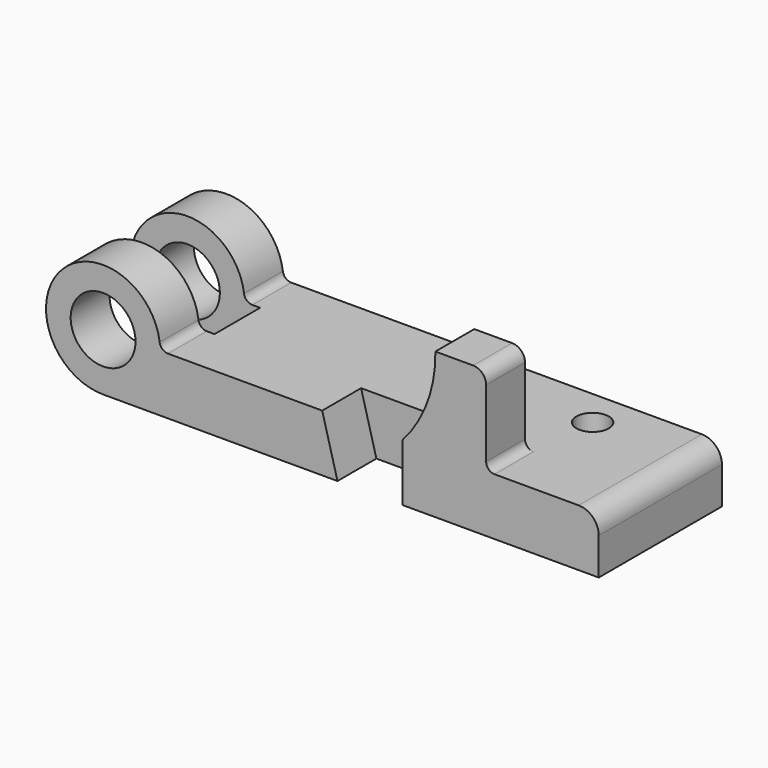
from build123d import *

# Parameters (mm, degrees)
F0_R      = 12.7
F1_DEPTH  = 30.1625
F2_W      = 56.912827603
F2_H      = 22.3266
F3_DEPTH  = 44.705
F4_R      = 3.302
F5_R      = 3.302
F6_R      = 6.35
F7_DEPTH  = 22.353
F9_DEPTH  = 19.05
F11_DEPTH = 19.05
F12_R     = 7.874
F13_R     = 5.08


with BuildPart() as f1:
    # F0 (on Front) → F1 (new body, symmetric)
    with BuildSketch(Plane.XZ):
        with BuildLine():
            ThreePointArc((22.352, 22.352), (-15.8052507731, 38.1572507731), (0, 0))
            Line((0, 0), (194.2084, 0))
            Line((194.2084, 0), (194.2084, 22.352))
            Line((194.2084, 22.352), (22.352, 22.352))
        make_face()
        with Locations((0, 22.352)):
            Circle(F0_R, mode=Mode.SUBTRACT)
    extrude(amount=F1_DEPTH, both=True)

    # F2 (on Top) → F3 (cut, through all)
    with BuildSketch(Plane.XY):
        Rectangle(F2_W, F2_H)
    extrude(amount=F3_DEPTH, mode=Mode.SUBTRACT)

    # F4
    f4_edges = [f1.edges().sort_by_distance(p)[0] for p in [
        (22.352, 20.6629, 22.352),
    ]]
    fillet(f4_edges, radius=F4_R)

    # F5
    f5_edges = [f1.edges().sort_by_distance(p)[0] for p in [
        (22.352, -20.6629, 22.352),
    ]]
    fillet(f5_edges, radius=F5_R)

    # F6 (on face) → F7 (cut, through all)
    with BuildSketch(Plane.XY.offset(22.352)):
        with Locations((155.3464, 15.4305)):
            Circle(F6_R)
    extrude(amount=-F7_DEPTH, mode=Mode.SUBTRACT)

    # F8 (on face) → F9 (cut)
    with BuildSketch(Plane.XZ.offset(30.1625)):
        Polygon((117.2464, 0), (117.2464, 22.352), (85.852, 22.352), (91.8464, 0), align=None)
    extrude(amount=-F9_DEPTH, mode=Mode.SUBTRACT)

    # F10 (on face) → F11 (join)
    with BuildSketch(Plane.XZ.offset(30.1625)):
        with BuildLine():
            ThreePointArc((130.1968694519, 57.15), (127.0147572456, 38.5254271914), (117.2464, 22.352))
            Line((117.2464, 22.352), (150.0886, 22.352))
            Line((150.0886, 22.352), (153.3906, 22.352))
            ThreePointArc((153.3906, 22.352), (151.0557334085, 23.3191334085), (150.0886, 25.654))
            Line((150.0886, 25.654), (150.0886, 57.15))
            Line((150.0886, 57.15), (130.1968694519, 57.15))
        make_face()
    extrude(amount=-F11_DEPTH)

    # F12
    f12_edges = [f1.edges().sort_by_distance(p)[0] for p in [
        (194.2084, 0, 22.352),
    ]]
    fillet(f12_edges, radius=F12_R)

    # F13
    f13_edges = [f1.edges().sort_by_distance(p)[0] for p in [
        (150.0886, -20.6375, 57.15),
    ]]
    fillet(f13_edges, radius=F13_R)


solid = f1.part
